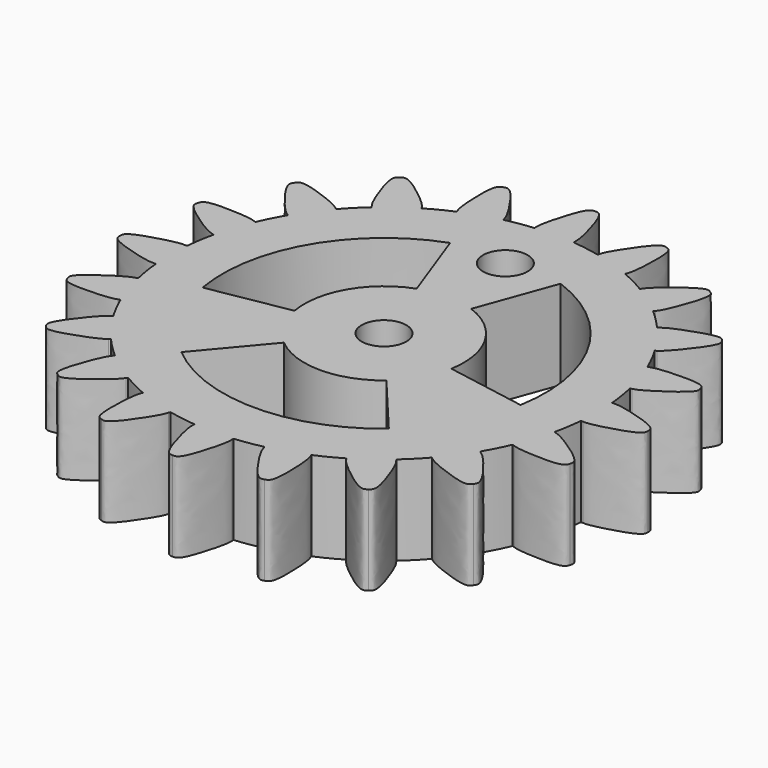
from build123d import *

# Parameters (mm, degrees)
F0_R     = 5.3351790251
F1_DEPTH = 10
F2_DEPTH = 10
F3_COUNT = 20
F4_R     = 23.92443291
F5_DEPTH = 10
F8_DEPTH = 10
F7_R     = 2.5
F9_DEPTH = 10


with BuildPart() as f1:
    # F0 (on Top) → F1 (new body)
    with BuildSketch(Plane.XY):
        Circle(F0_R)
    extrude(amount=F1_DEPTH)



with BuildPart() as f2:
    # F0 (on Top) → F2 (new body)
    with BuildSketch(Plane.XY):
        with BuildLine():
            Line((-29.6069439501, 0), (-24.0425169468, 0))
            Line((-24.0425169468, 0), (-24.0425169468, 2.1929510403))
            add(Edge.make_bspline(
                [(-24.0425169468, 2.1929510403), (-24.2687582964, 2.1963284465), (-24.9840720983, 2.2070068891), (-29.6277647474, 0.9410329629), (-29.6114808065, 0.2050512965), (-29.6069439501, 0)],
                knots=[0, 0, 0, 0, 0.2502118725, 0.7911020958, 1, 1, 1, 1], degree=3))
        make_face()
        Polygon((-24.0425169468, -2.1929510403), (-22.3863385618, -2.1929510403), (-22.3863385618, 2.1929510403), (-24.0425169468, 2.1929510403), (-24.0425169468, 0), align=None)
        with BuildLine():
            add(Edge.make_bspline(
                [(-24.0425169468, -2.1929510403), (-24.2687582964, -2.1963284465), (-24.9840720983, -2.2070068891), (-29.6277647474, -0.9410329629), (-29.6114808065, -0.2050512965), (-29.6069439501, 0)],
                knots=[0, 0, 0, 0, 0.2502118725, 0.7911020958, 1, 1, 1, 1], degree=3))
            Line((-24.0425169468, -2.1929510403), (-24.0425169468, 0))
            Line((-24.0425169468, 0), (-29.6069439501, 0))
        make_face()
    extrude(amount=F2_DEPTH)


with BuildPart() as f3_1:
    # F3: instance of F2
    add(f2.part.rotate(Axis((0, 0, 10), (0, 0, 1)), 1 * 360 / F3_COUNT))


with BuildPart() as f3_2:
    # F3: instance of F2
    add(f2.part.rotate(Axis((0, 0, 10), (0, 0, 1)), 2 * 360 / F3_COUNT))


with BuildPart() as f3_3:
    # F3: instance of F2
    add(f2.part.rotate(Axis((0, 0, 10), (0, 0, 1)), 3 * 360 / F3_COUNT))


with BuildPart() as f3_4:
    # F3: instance of F2
    add(f2.part.rotate(Axis((0, 0, 10), (0, 0, 1)), 4 * 360 / F3_COUNT))


with BuildPart() as f3_5:
    # F3: instance of F2
    add(f2.part.rotate(Axis((0, 0, 10), (0, 0, 1)), 5 * 360 / F3_COUNT))


with BuildPart() as f3_6:
    # F3: instance of F2
    add(f2.part.rotate(Axis((0, 0, 10), (0, 0, 1)), 6 * 360 / F3_COUNT))


with BuildPart() as f3_7:
    # F3: instance of F2
    add(f2.part.rotate(Axis((0, 0, 10), (0, 0, 1)), 7 * 360 / F3_COUNT))


with BuildPart() as f3_8:
    # F3: instance of F2
    add(f2.part.rotate(Axis((0, 0, 10), (0, 0, 1)), 8 * 360 / F3_COUNT))


with BuildPart() as f3_9:
    # F3: instance of F2
    add(f2.part.rotate(Axis((0, 0, 10), (0, 0, 1)), 9 * 360 / F3_COUNT))


with BuildPart() as f3_10:
    # F3: instance of F2
    add(f2.part.rotate(Axis((0, 0, 10), (0, 0, 1)), 10 * 360 / F3_COUNT))


with BuildPart() as f3_11:
    # F3: instance of F2
    add(f2.part.rotate(Axis((0, 0, 10), (0, 0, 1)), 11 * 360 / F3_COUNT))


with BuildPart() as f3_12:
    # F3: instance of F2
    add(f2.part.rotate(Axis((0, 0, 10), (0, 0, 1)), 12 * 360 / F3_COUNT))


with BuildPart() as f3_13:
    # F3: instance of F2
    add(f2.part.rotate(Axis((0, 0, 10), (0, 0, 1)), 13 * 360 / F3_COUNT))


with BuildPart() as f3_14:
    # F3: instance of F2
    add(f2.part.rotate(Axis((0, 0, 10), (0, 0, 1)), 14 * 360 / F3_COUNT))


with BuildPart() as f3_15:
    # F3: instance of F2
    add(f2.part.rotate(Axis((0, 0, 10), (0, 0, 1)), 15 * 360 / F3_COUNT))


with BuildPart() as f3_16:
    # F3: instance of F2
    add(f2.part.rotate(Axis((0, 0, 10), (0, 0, 1)), 16 * 360 / F3_COUNT))


with BuildPart() as f3_17:
    # F3: instance of F2
    add(f2.part.rotate(Axis((0, 0, 10), (0, 0, 1)), 17 * 360 / F3_COUNT))


with BuildPart() as f3_18:
    # F3: instance of F2
    add(f2.part.rotate(Axis((0, 0, 10), (0, 0, 1)), 18 * 360 / F3_COUNT))


with BuildPart() as f3_19:
    # F3: instance of F2
    add(f2.part.rotate(Axis((0, 0, 10), (0, 0, 1)), 19 * 360 / F3_COUNT))


with BuildPart() as f1_1:
    add(f1.part)

    add(f2.part)  # F5 merges F2

    add(f3_1.part)  # F5 merges F3_1

    add(f3_2.part)  # F5 merges F3_2

    add(f3_3.part)  # F5 merges F3_3

    add(f3_4.part)  # F5 merges F3_4

    add(f3_5.part)  # F5 merges F3_5

    add(f3_6.part)  # F5 merges F3_6

    add(f3_7.part)  # F5 merges F3_7

    add(f3_8.part)  # F5 merges F3_8

    add(f3_9.part)  # F5 merges F3_9

    add(f3_10.part)  # F5 merges F3_10

    add(f3_11.part)  # F5 merges F3_11

    add(f3_12.part)  # F5 merges F3_12

    add(f3_13.part)  # F5 merges F3_13

    add(f3_14.part)  # F5 merges F3_14

    add(f3_15.part)  # F5 merges F3_15

    add(f3_16.part)  # F5 merges F3_16

    add(f3_17.part)  # F5 merges F3_17

    add(f3_18.part)  # F5 merges F3_18

    add(f3_19.part)  # F5 merges F3_19
    # F4 (on Top) → F5 (join)
    with BuildSketch(Plane.XY):
        Circle(F4_R)
    extrude(amount=F5_DEPTH)

    # F6 (on face) → F8 (cut, through all)
    with BuildSketch(Plane.XY.offset(10)):
        with BuildLine():
            ThreePointArc((-8.7971860545, -1.5511812557), (-7.7361155837, 4.4664484147), (-3.0552306539, 8.3941772329))
            Line((-3.0552306539, 8.3941772329), (-6.1881785554, 17.0018808484))
            ThreePointArc((-6.1881785554, 17.0018808484), (-15.6690181461, 9.0465118446), (-17.8181500045, -3.1418205921))
            Line((-17.8181500045, -3.1418205921), (-8.7971860545, -1.5511812557))
        make_face()
        with BuildLine():
            Line((-5.7419554006, -6.8429959772), (-11.6299714492, -13.8600602563))
            ThreePointArc((-11.6299714492, -13.8600602563), (0, -18.0930236892), (11.6299714492, -13.8600602563))
            Line((11.6299714492, -13.8600602563), (5.7419554006, -6.8429959772))
            ThreePointArc((5.7419554006, -6.8429959772), (0, -8.9328968295), (-5.7419554006, -6.8429959772))
        make_face()
        with BuildLine():
            ThreePointArc((3.0552306539, 8.3941772329), (7.7361155837, 4.4664484147), (8.7971860545, -1.5511812557))
            Line((8.7971860545, -1.5511812557), (17.8181500045, -3.1418205921))
            ThreePointArc((17.8181500045, -3.1418205921), (15.6690181461, 9.0465118446), (6.1881785554, 17.0018808484))
            Line((6.1881785554, 17.0018808484), (3.0552306539, 8.3941772329))
        make_face()
    extrude(amount=-F8_DEPTH, mode=Mode.SUBTRACT)

    # F7 (on face) → F9 (cut, through all)
    with BuildSketch(Plane.XY.offset(10)):
        with Locations((0, 17)):
            Circle(F7_R)
        Circle(F7_R)
    extrude(amount=-F9_DEPTH, mode=Mode.SUBTRACT)


solid = f1_1.part
